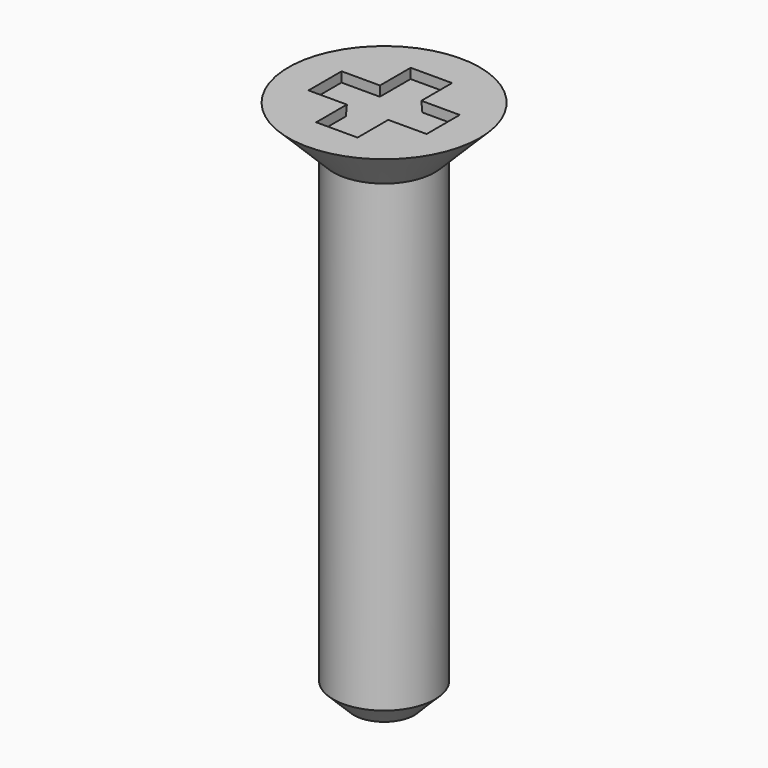
from build123d import *

# Parameters (mm, degrees)
F2_W     = 0.508
F2_H     = 0.942
F2_W_2   = 0.942
F2_H_2   = 0.508
F3_DEPTH = 0.254
F3_TAPER = -3
F4_SIZE  = 0.508


with BuildPart() as f1:
    # F0 (on Front) → F1 (revolve)
    with BuildSketch(Plane.XZ):
        Polygon((0, 13), (0, 0), (1.25, 0), (1.25, 11.9), (2.35, 13), align=None)
    revolve(axis=Axis((0, 0, 6.5), (0, 0, 1)))

    # F2 (on face) → F3 (cut)
    with BuildSketch(Plane.XY.offset(13)):
        Polygon((-0.508, 0.1779751724), (-1.45, 0.508), (-1.45, 0), (-0.508, 0), align=None)
        Polygon((-0.508, 0.508), (-1.45, 0.508), (-0.508, 0.1779751724), align=None)
        with Locations((-0.254, 0.979)):
            Rectangle(F2_W, F2_H)
        Polygon((0, 0.508), (-0.508, 0.508), (-0.508, 0.1779751724), (0, 0), align=None)
        with Locations((-0.979, -0.254)):
            Rectangle(F2_W_2, F2_H_2)
        Polygon((0, 1.45), (0, 0.508), (0.1779751724, 0.508), (0.508, 1.45), align=None)
        Polygon((0, 0), (-0.508, 0), (-0.508, -0.508), (-0.1779751724, -0.508), align=None)
        Polygon((0.508, -0.1779751724), (0, 0), (0, -0.508), (0.508, -0.508), align=None)
        Polygon((0.1779751724, 0.508), (0, 0), (0.508, 0), (0.508, 0.508), align=None)
        Polygon((0.508, 1.45), (0.1779751724, 0.508), (0.508, 0.508), align=None)
        Polygon((-0.1779751724, -0.508), (-0.508, -0.508), (-0.508, -1.45), align=None)
        Polygon((0, -1.45), (0, -0.508), (-0.1779751724, -0.508), (-0.508, -1.45), align=None)
        with Locations((0.254, -0.979)):
            Rectangle(F2_W, F2_H)
        Polygon((1.45, 0), (0.508, 0), (0.508, -0.1779751724), (1.45, -0.508), align=None)
        with Locations((0.979, 0.254)):
            Rectangle(F2_W_2, F2_H_2)
        Polygon((1.45, -0.508), (0.508, -0.1779751724), (0.508, -0.508), align=None)
        Polygon((0.1779751724, 0.508), (0, 0.508), (0, 0), align=None)
        Polygon((0.508, 0), (0, 0), (0.508, -0.1779751724), align=None)
        Polygon((0, -0.508), (0, 0), (-0.1779751724, -0.508), align=None)
        Polygon((0, 0), (-0.508, 0.1779751724), (-0.508, 0), align=None)
    extrude(amount=-F3_DEPTH, taper=F3_TAPER, mode=Mode.SUBTRACT)

    # F4
    f4_edges = [f1.edges().sort_by_distance(p)[0] for p in [
        (-1.25, 0, 0),
    ]]
    chamfer(f4_edges, length=F4_SIZE)


solid = f1.part
